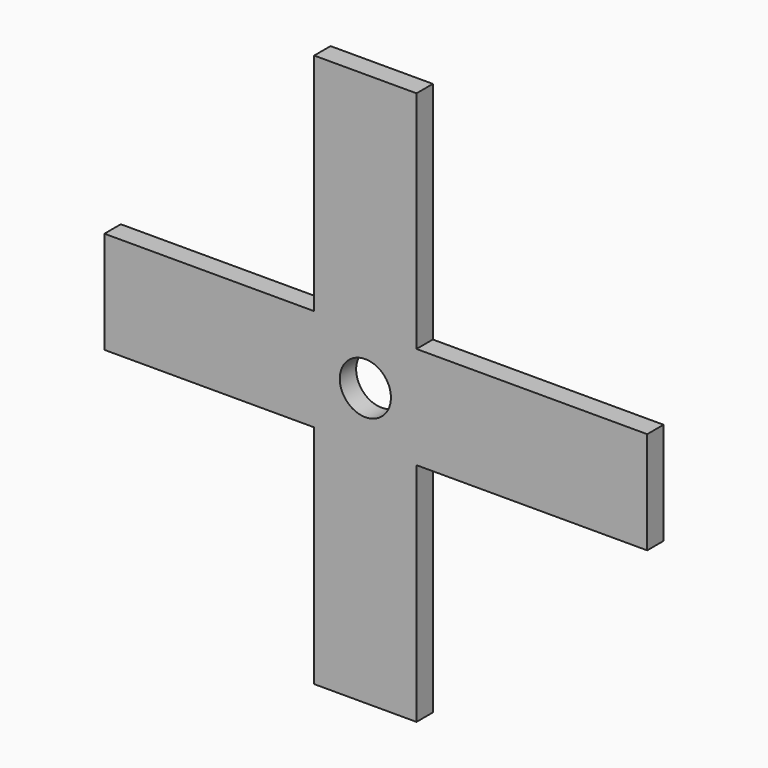
from build123d import *

# Parameters (mm, degrees)
F0_R     = 12.5
F1_DEPTH = 10


with BuildPart() as f1:
    # F0 (on Front) → F1 (new body)
    with BuildSketch(Plane.XZ):
        with BuildLine():
            Line((20.260356, 131.683536), (-29.739644, 131.683536))
            Line((-29.739644, 131.683536), (-29.739644, 21.683536))
            Line((-29.739644, 21.683536), (-132.202011, 21.683536))
            ThreePointArc((-132.202011, 21.683536), (-132.236004, 21.471069), (-132.269658, 21.258549))
            Line((-132.269658, 21.258549), (-132.269658, -28.316464))
            Line((-132.269658, -28.316464), (-29.739644, -28.316464))
            Line((-29.739644, -28.316464), (-29.739644, -138.80116))
            Line((-29.739644, -138.80116), (20.260356, -138.80116))
            Line((20.260356, -138.80116), (20.260356, -28.316464))
            Line((20.260356, -28.316464), (133.028674, -28.316464))
            Line((133.028674, -28.316464), (133.028674, 21.683536))
            Line((133.028674, 21.683536), (20.260356, 21.683536))
            Line((20.260356, 21.683536), (20.260356, 131.683536))
        make_face()
        with Locations((-4.739644, -3.316464)):
            Circle(F0_R, mode=Mode.SUBTRACT)
        with BuildLine():
            ThreePointArc((-132.269658, 21.258549), (-132.236004, 21.471069), (-132.202011, 21.683536))
            Line((-132.202011, 21.683536), (-132.269658, 21.683536))
            Line((-132.269658, 21.683536), (-132.269658, 21.258549))
        make_face()
    extrude(amount=F1_DEPTH)


solid = f1.part
